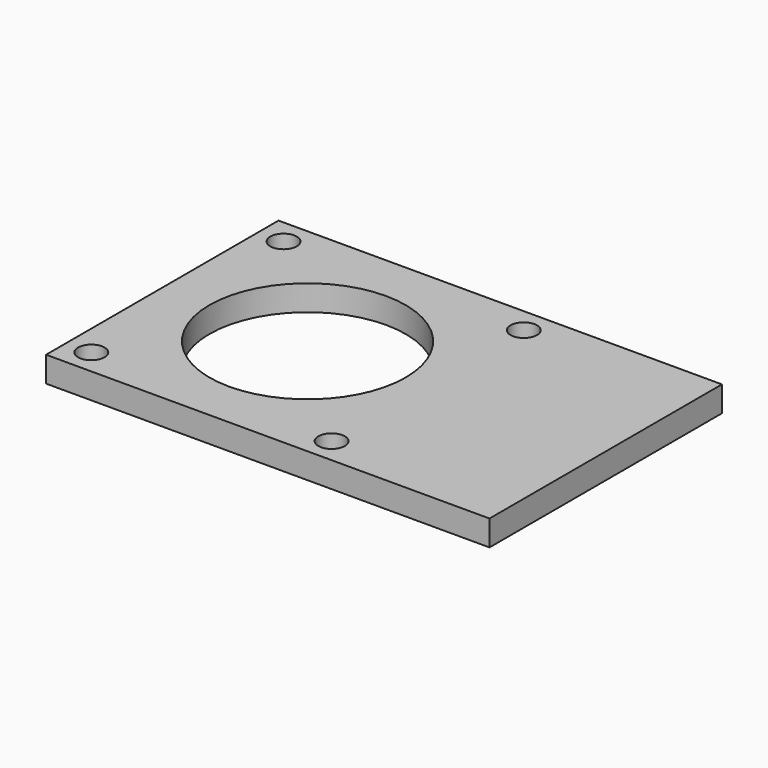
from build123d import *

# Parameters (mm, degrees)
F0_R     = 2.6
F0_R_2   = 19.25
F1_DEPTH = 5


with BuildPart() as f1:
    # F0 (on Top) → F1 (new body)
    with BuildSketch(Plane.XY):
        Polygon((-28.5, -28.5), (28.5, -28.5), (58.5, -28.5), (58.5, 28.5), (28.5, 28.5), (-28.5, 28.5), align=None)
        with Locations((-23.57, -23.57)):
            Circle(F0_R, mode=Mode.SUBTRACT)
        with Locations((23.57, -23.57)):
            Circle(F0_R, mode=Mode.SUBTRACT)
        Circle(F0_R_2, mode=Mode.SUBTRACT)
        with Locations((-23.57, 23.57)):
            Circle(F0_R, mode=Mode.SUBTRACT)
        with Locations((23.57, 23.57)):
            Circle(F0_R, mode=Mode.SUBTRACT)
    extrude(amount=F1_DEPTH)


solid = f1.part
